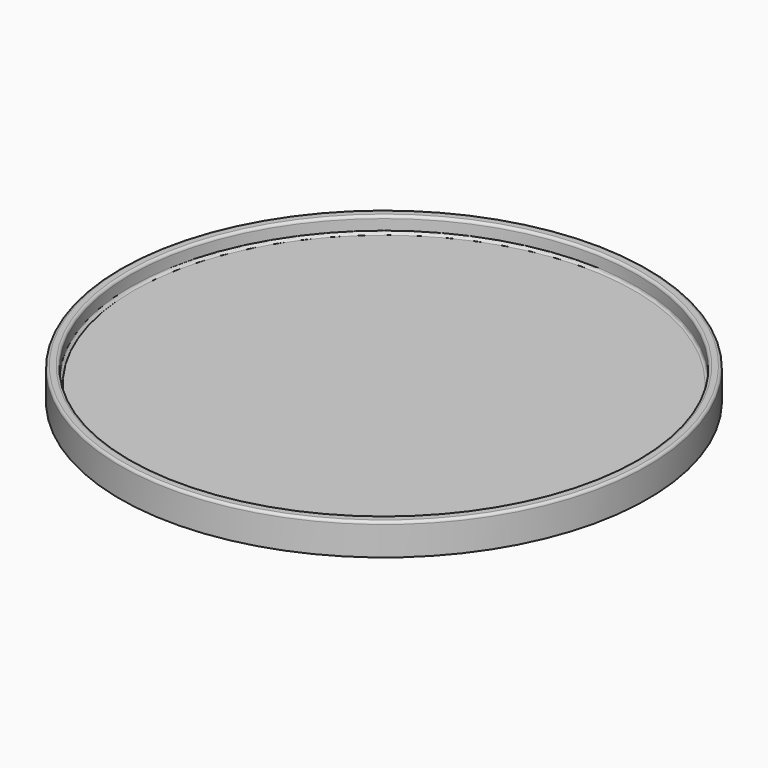
from build123d import *

# Parameters (mm, degrees)
F2_R = 0.5
F3_R = 0.5
F4_R = 0.5


with BuildPart() as f1:
    # F0 (on Front) → F1 (revolve)
    with BuildSketch(Plane.XZ):
        Polygon((-50, 0), (0, 0), (0, 3), (-48, 3), (-48, 6), (-50, 6), align=None)
    revolve(axis=Axis((0, 0, 1.5), (0, 0, -1)))

    # F2
    f2_edges = [f1.edges().sort_by_distance(p)[0] for p in [
        (50, 0, 6),
    ]]
    fillet(f2_edges, radius=F2_R)

    # F3
    f3_edges = [f1.edges().sort_by_distance(p)[0] for p in [
        (48, 0, 6),
    ]]
    fillet(f3_edges, radius=F3_R)

    # F4
    f4_edges = [f1.edges().sort_by_distance(p)[0] for p in [
        (48, 0, 3),
    ]]
    fillet(f4_edges, radius=F4_R)


solid = f1.part
